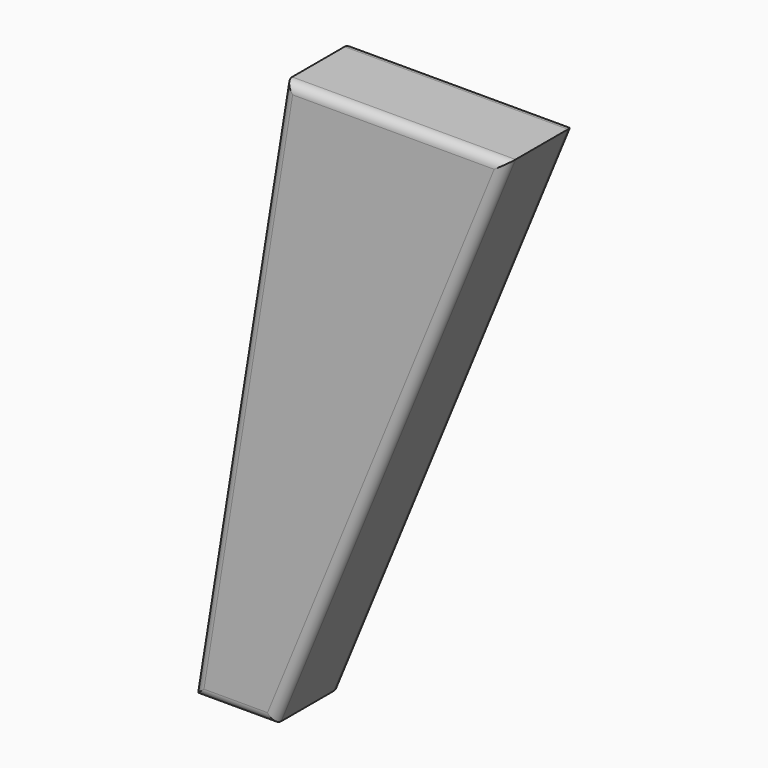
from build123d import *

# Parameters (mm, degrees)
F1_DEPTH = 45
F2_R     = 5
F3_R     = 5


with BuildPart() as f1:
    # F0 (on Front) → F1 (new body)
    with BuildSketch(Plane.XZ):
        Polygon((-199.459287, 55.321917), (-248.504069, -250), (-205.278272, -250), (-79.926361, 55.321917), align=None)
    extrude(amount=F1_DEPTH)

    # F2
    f2_edges = [f1.edges().sort_by_distance(p)[0] for p in [
        (-223.981678, 0, -97.339041),
        (-226.891171, 0, -250),
        (-142.602317, 0, -97.339041),
        (-139.692824, 0, 55.321917),
    ]]
    fillet(f2_edges, radius=F2_R)

    # F3
    f3_edges = [f1.edges().sort_by_distance(p)[0] for p in [
        (-223.981678, -45, -97.339041),
        (-226.891171, -45, -250),
        (-142.602317, -45, -97.339041),
        (-139.692824, -45, 55.321917),
    ]]
    fillet(f3_edges, radius=F3_R)


solid = f1.part
